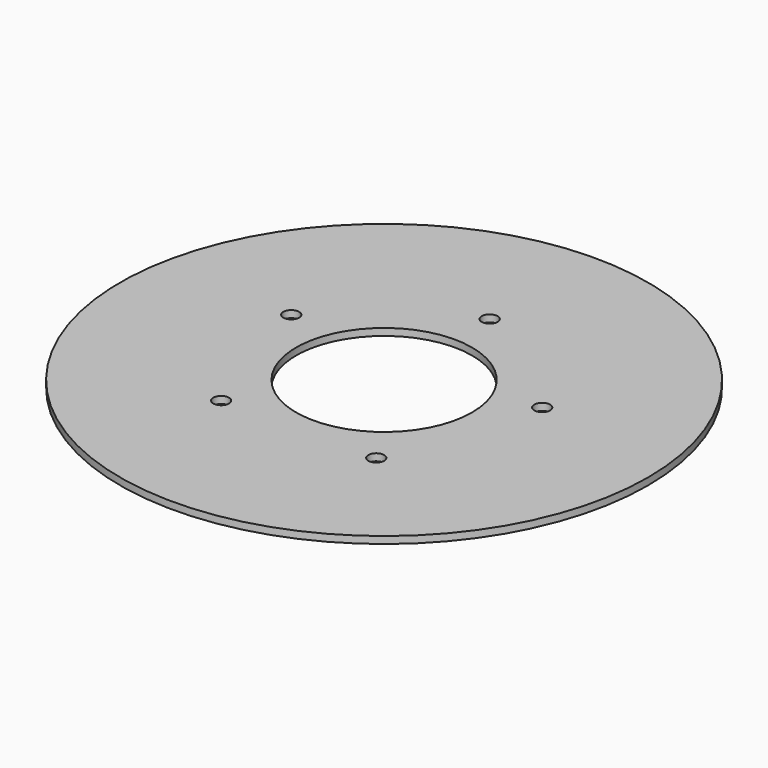
from build123d import *

# Parameters (mm, degrees)
F0_R     = 75
F0_R_2   = 2.25
F0_R_3   = 25
F1_DEPTH = 2


with BuildPart() as f1:
    # F0 (on Top) → F1 (new body)
    with BuildSketch(Plane.XY):
        Circle(F0_R)
        with Locations((-22.039318, -30.334519)):
            Circle(F0_R_2, mode=Mode.SUBTRACT)
        with Locations((22.039318, -30.334519)):
            Circle(F0_R_2, mode=Mode.SUBTRACT)
        with Locations((-35.660366, 11.586755)):
            Circle(F0_R_2, mode=Mode.SUBTRACT)
        Circle(F0_R_3, mode=Mode.SUBTRACT)
        with Locations((35.660366, 11.586755)):
            Circle(F0_R_2, mode=Mode.SUBTRACT)
        with Locations((0, 37.495527)):
            Circle(F0_R_2, mode=Mode.SUBTRACT)
    extrude(amount=F1_DEPTH)


solid = f1.part
